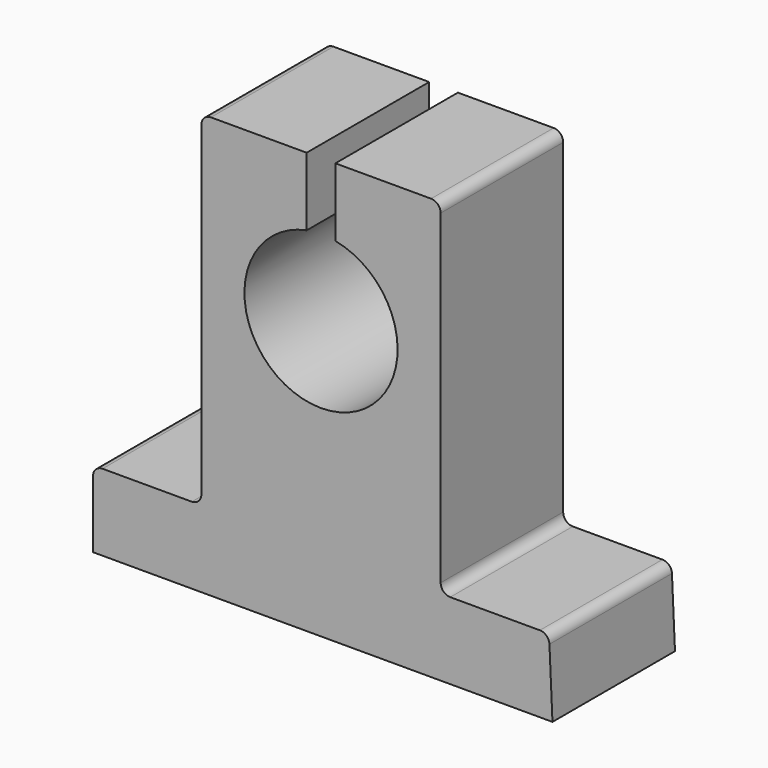
from build123d import *

# Parameters (mm, degrees)
F1_DEPTH = 8


with BuildPart() as f1:
    # F0 (on Front) → F1 (new body, symmetric)
    with BuildSketch(Plane.XZ):
        with BuildLine():
            Line((-23.820377, -11.462722), (24.179623, -11.462722))
            Line((24.179623, -11.462722), (23.863268, -4.417862))
            ThreePointArc((23.863268, -4.417862), (23.555339, -3.739929), (22.864275, -3.462722))
            Line((22.864275, -3.462722), (13.5, -3.462722))
            ThreePointArc((13.5, -3.462722), (12.792893, -3.169829), (12.5, -2.462722))
            Line((12.5, -2.462722), (12.5, 31.537278))
            ThreePointArc((12.5, 31.537278), (12.207107, 32.244384), (11.5, 32.537278))
            Line((11.5, 32.537278), (1.5, 32.537278))
            Line((1.5, 32.537278), (1.5, 25.395395))
            ThreePointArc((1.5, 25.395395), (0, 9.537278), (-1.5, 25.395395))
            Line((-1.5, 25.395395), (-1.5, 32.537278))
            Line((-1.5, 32.537278), (-11.5, 32.537278))
            ThreePointArc((-11.5, 32.537278), (-12.207107, 32.244384), (-12.5, 31.537278))
            Line((-12.5, 31.537278), (-12.5, -2.462722))
            ThreePointArc((-12.5, -2.462722), (-12.792893, -3.169829), (-13.5, -3.462722))
            Line((-13.5, -3.462722), (-22.820377, -3.462722))
            ThreePointArc((-22.820377, -3.462722), (-23.527483, -3.755616), (-23.820377, -4.462722))
            Line((-23.820377, -4.462722), (-23.820377, -11.462722))
        make_face()
    extrude(amount=F1_DEPTH, both=True)


solid = f1.part
